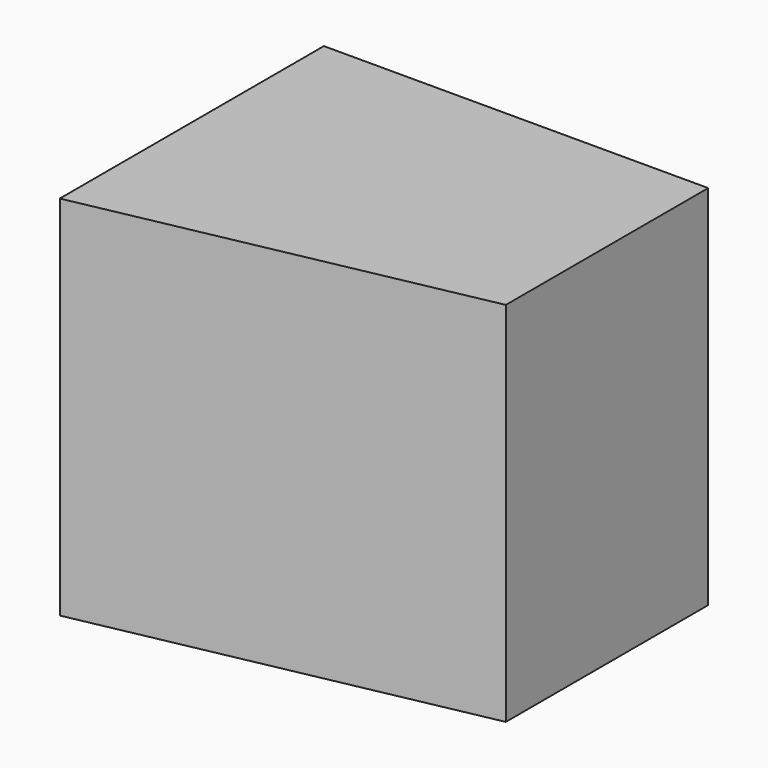
from build123d import *

# Parameters (mm, degrees)
F2_DEPTH = 25


with BuildPart() as f2:
    # F1 (on face) → F2 (new body)
    with BuildSketch(Plane.XY):
        Polygon((0, 46.879567), (0, 24.682174), (0, 24.399525), (26.173044, 29.651739), (26.173044, 46.879567), align=None)
    extrude(amount=F2_DEPTH)


solid = f2.part
